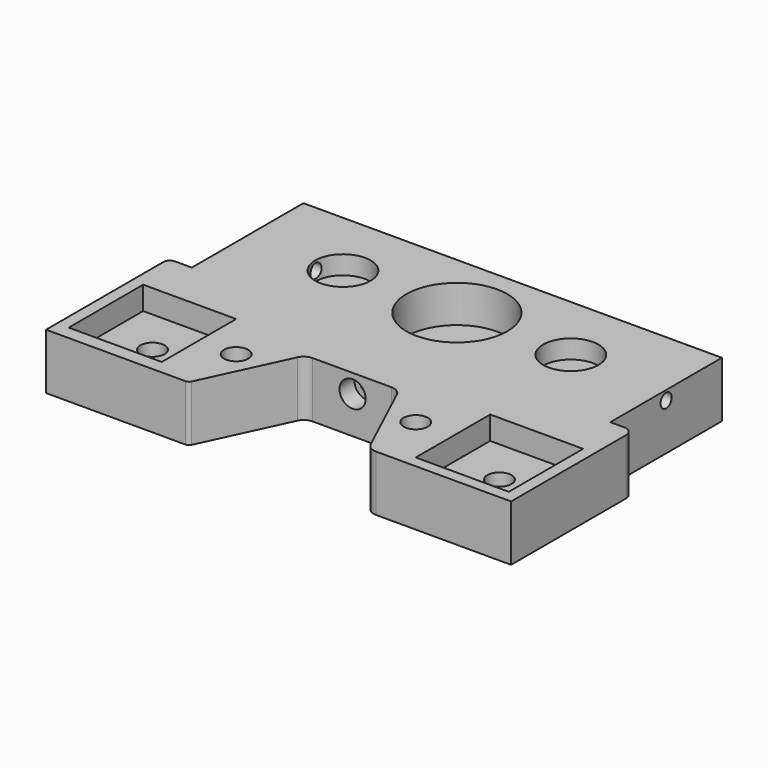
from build123d import *

# Parameters (mm, degrees)
SKETCH_R        = 2.6
PAD_DEPTH       = 12
SKETCH001_W     = 20
SKETCH001_H     = 20
POCKET_DEPTH    = 5
SKETCH002_R     = 4.5
POCKET001_DEPTH = 12
SKETCH003_R     = 10.85
POCKET002_DEPTH = 8
SKETCH004_R     = 5.95
POCKET003_DEPTH = 4
SKETCH005_R     = 1.5
POCKET004_DEPTH = 19
SKETCH006_R     = 2.811214
POCKET005_DEPTH = 4
SKETCH007_R     = 4
POCKET006_DEPTH = 3
SKETCH008_R     = 1.5
POCKET007_DEPTH = 16
SKETCH009_R     = 1.5
POCKET008_DEPTH = 16


with BuildPart() as part:
    # Sketch → Pad (new body)
    with BuildSketch(Plane.XY):
        with BuildLine():
            Line((-57.237457, 55.978201), (32.762543, 55.978201))
            Line((32.762543, 55.978201), (32.762543, 25.978201))
            Line((32.762543, 25.978201), (35.725993, 25.978201))
            ThreePointArc((37.762543, 23.941651), (37.166051, 25.381709), (35.725993, 25.978201))
            Line((37.762543, 23.941651), (37.762543, 20.978201))
            Line((37.762543, -6.948806), (37.762543, 20.978201))
            Line((8.727398, -6.948806), (37.762543, -6.948806))
            ThreePointArc((6.368817, -5.446224), (7.329126, -6.541247), (8.727398, -6.948806))
            Line((-1.496911, 11.421883), (6.368817, -5.446224))
            ThreePointArc((-1.496911, 11.421883), (-2.47295, 12.534842), (-3.894125, 12.949077))
            Line((-20.852174, 12.949077), (-3.894125, 12.949077))
            ThreePointArc((-20.852174, 12.949077), (-22.12751, 12.577351), (-23.003388, 11.578602))
            Line((-31.391573, -6.409918), (-23.003388, 11.578602))
            ThreePointArc((-32.237457, -6.948806), (-31.73598, -6.802638), (-31.391573, -6.409918))
            Line((-62.237457, -6.948806), (-32.237457, -6.948806))
            Line((-62.237457, 17.407665), (-62.237457, -6.948806))
            Line((-62.237457, 17.407665), (-62.237457, 24.590235))
            ThreePointArc((-60.849491, 25.978201), (-61.830931, 25.571675), (-62.237457, 24.590235))
            Line((-60.849491, 25.978201), (-57.237457, 25.978201))
            Line((-57.237457, 25.978201), (-57.237457, 55.978201))
        make_face()
        with Locations((-49.737457, 6.02373)):
            Circle(SKETCH_R, mode=Mode.SUBTRACT)
        with Locations((-31.737457, 6.02373)):
            Circle(SKETCH_R, mode=Mode.SUBTRACT)
        with Locations((25.262543, 5.551194)):
            Circle(SKETCH_R, mode=Mode.SUBTRACT)
        with Locations((7.262543, 5.551194)):
            Circle(SKETCH_R, mode=Mode.SUBTRACT)
    extrude(amount=PAD_DEPTH)

    # Sketch001 (on Face26 of Pad) → Pocket (cut)
    with BuildSketch(Plane.XY.offset(12)):
        with Locations((-49.737457, 6.02373)):
            Rectangle(SKETCH001_W, SKETCH001_H)
        with Locations((25.262543, 5.551194)):
            Rectangle(SKETCH001_W, SKETCH001_H)
    extrude(amount=-POCKET_DEPTH, mode=Mode.SUBTRACT)

    # Sketch002 (on Face5 of Pocket) → Pocket001 (cut)
    with BuildSketch(Plane.XY.offset(12)):
        with Locations((-12.237457, 40.978201)):
            Circle(SKETCH002_R)
    extrude(amount=-POCKET001_DEPTH, mode=Mode.SUBTRACT)

    # Sketch003 (on Face5 of Pocket001) → Pocket002 (cut)
    with BuildSketch(Plane.XY.offset(12)):
        with Locations((-12.237457, 40.978201)):
            Circle(SKETCH003_R)
    extrude(amount=-POCKET002_DEPTH, mode=Mode.SUBTRACT)

    # Sketch004 (on Face5 of Pocket002) → Pocket003 (cut)
    with BuildSketch(Plane.XY.offset(12)):
        with Locations((-36.737457, 40.978201)):
            Circle(SKETCH004_R)
        with Locations((12.262543, 40.978201)):
            Circle(SKETCH004_R)
    extrude(amount=-POCKET003_DEPTH, mode=Mode.SUBTRACT)

    # Sketch005 (on Face18 of Pocket003) → Pocket004 (cut)
    with BuildSketch(Plane.XZ.offset(-12.949077)):
        with Locations((-12.237457, 8)):
            Circle(SKETCH005_R)
    extrude(amount=-POCKET004_DEPTH, mode=Mode.SUBTRACT)

    # Sketch006 (on Face18 of Pocket004) → Pocket005 (cut)
    with BuildSketch(Plane.XZ.offset(-12.949077)):
        with Locations((-12.237457, 8)):
            Circle(SKETCH006_R)
    extrude(amount=-POCKET005_DEPTH, mode=Mode.SUBTRACT)

    # Sketch007 (on Face4 of Pocket005) → Pocket006 (cut)
    with BuildSketch(Plane(origin=(0, 0, 0), x_dir=(1, 0, 0), z_dir=(0, 0, -1))):
        with Locations((-49.737457, -6.02373)):
            Circle(SKETCH007_R)
        with Locations((-31.737457, -6.02373)):
            Circle(SKETCH007_R)
        with Locations((7.262543, -5.551194)):
            Circle(SKETCH007_R)
        with Locations((25.262543, -5.551194)):
            Circle(SKETCH007_R)
    extrude(amount=-POCKET006_DEPTH, mode=Mode.SUBTRACT)

    # Sketch008 (on Face9 of Pocket006) → Pocket007 (cut)
    with BuildSketch(Plane.YZ.offset(32.762543)):
        with Locations((40.978201, 10)):
            Circle(SKETCH008_R)
    extrude(amount=-POCKET007_DEPTH, mode=Mode.SUBTRACT)

    # Sketch009 (on Face3 of Pocket007) → Pocket008 (cut)
    with BuildSketch(Plane(origin=(-57.237457, 0, 0), x_dir=(0, -1, 0), z_dir=(-1, 0, 0))):
        with Locations((-40.978201, 10)):
            Circle(SKETCH009_R)
    extrude(amount=-POCKET008_DEPTH, mode=Mode.SUBTRACT)


solid = part.part
